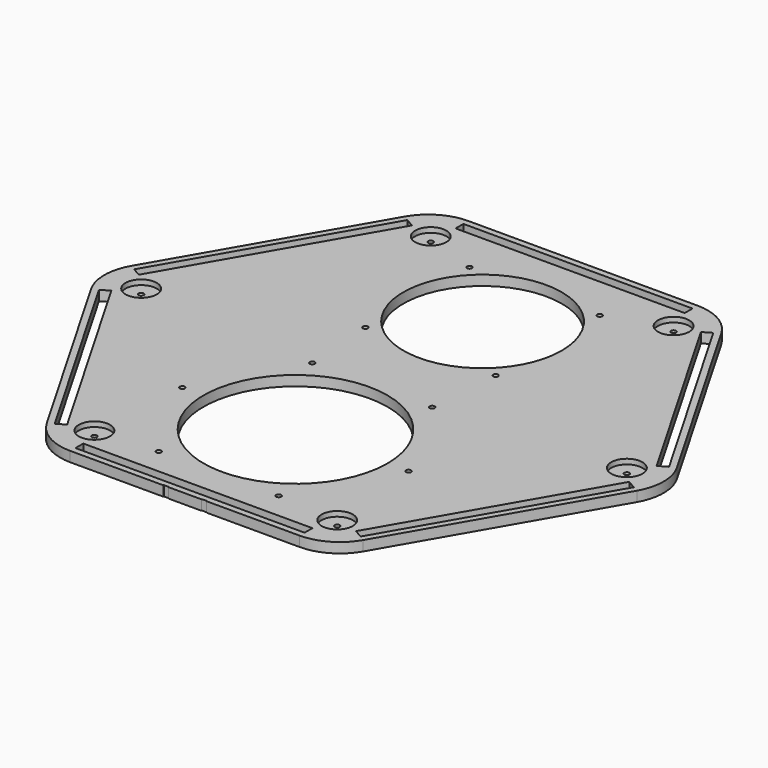
from build123d import *

# Parameters (mm, degrees)
F1_DEPTH  = 5.08
F2_R      = 40
F2_R_2    = 46.5
F2_R_3    = 1.27
F3_DEPTH  = 25.4
F4_W      = 115.731926
F4_H      = 4.953
F5_DEPTH  = 5.081
F6_R      = 7.8867
F7_DEPTH  = 2.54
F8_R      = 1.27
F9_DEPTH  = 2.541
F10_W     = 2.54
F10_H     = 0.254
F11_DEPTH = 5.081


with BuildPart() as f1:
    # F0 (on Top) → F1 (new body)
    with BuildSketch(Plane.XY):
        with BuildLine():
            Line((-79.922598, 113.03), (-137.84815, 12.7))
            ThreePointArc((-137.84815, 12.7), (-141.251105, 0), (-137.84815, -12.7))
            Line((-137.84815, -12.7), (-79.922598, -113.03))
            ThreePointArc((-79.922598, -113.03), (-70.625553, -122.327045), (-57.925553, -125.73))
            Line((-57.925553, -125.73), (57.925553, -125.73))
            ThreePointArc((57.925553, -125.73), (70.625553, -122.327045), (79.922598, -113.03))
            Line((79.922598, -113.03), (137.84815, -12.7))
            ThreePointArc((137.84815, -12.7), (141.251105, 0), (137.84815, 12.7))
            Line((137.84815, 12.7), (79.922598, 113.03))
            ThreePointArc((79.922598, 113.03), (70.625553, 122.327045), (57.925553, 125.73))
            Line((57.925553, 125.73), (-57.925553, 125.73))
            ThreePointArc((-57.925553, 125.73), (-70.625553, 122.327045), (-79.922598, 113.03))
        make_face()
    extrude(amount=F1_DEPTH)

    # F2 (on face) → F3 (cut)
    with BuildSketch(Plane.XY.offset(5.08)):
        with Locations((0, 62.23)):
            Circle(F2_R)
        with Locations((0, -55.88)):
            Circle(F2_R_2)
        with Locations((57.15, -55.88)):
            Circle(F2_R_3)
        with Locations((30.284886, -7.414051)):
            Circle(F2_R_3)
        with Locations((30.284886, -104.345949)):
            Circle(F2_R_3)
        with Locations((-30.284886, -7.414051)):
            Circle(F2_R_3)
        with Locations((-30.284886, -104.345949)):
            Circle(F2_R_3)
        with Locations((-57.15, -55.88)):
            Circle(F2_R_3)
        with Locations((-32.880465, 95.110465)):
            Circle(F2_R_3)
        with Locations((-32.880465, 29.349535)):
            Circle(F2_R_3)
        with Locations((32.880465, 29.349535)):
            Circle(F2_R_3)
        with Locations((32.880465, 95.110465)):
            Circle(F2_R_3)
    extrude(amount=-F3_DEPTH, mode=Mode.SUBTRACT)

    # F4 (on face) → F5 (cut, through all)
    with BuildSketch(Plane.XY.offset(5.08)):
        Polygon((-135.03893, -11.215713), (-77.172967, -111.4425), (-72.883543, -108.966), (-130.749506, -8.739213), align=None)
        Polygon((-77.232557, 111.339287), (-135.09852, 11.1125), (-130.809096, 8.636), (-72.943133, 108.862787), align=None)
        with Locations((-0.05959, 120.0785)):
            Rectangle(F4_W, F4_H)
        Polygon((135.03893, 11.215713), (77.172967, 111.4425), (72.883543, 108.966), (130.749506, 8.739213), align=None)
        Polygon((77.232557, -111.339287), (135.09852, -11.1125), (130.809096, -8.636), (72.943133, -108.862787), align=None)
        with Locations((0.05959, -120.0785)):
            Rectangle(F4_W, F4_H)
    extrude(amount=-F5_DEPTH, mode=Mode.SUBTRACT)

    # F6 (on face) → F7 (cut)
    with BuildSketch(Plane.XY.offset(5.08)):
        with Locations((-61.343372, 106.202414)):
            Circle(F6_R)
        with Locations((61.302302, 106.226125)):
            Circle(F6_R)
        with Locations((122.645674, 0.023711)):
            Circle(F6_R)
        with Locations((61.343372, -106.202414)):
            Circle(F6_R)
        with Locations((-61.302302, -106.226125)):
            Circle(F6_R)
        with Locations((-122.645674, -0.023711)):
            Circle(F6_R)
    extrude(amount=-F7_DEPTH, mode=Mode.SUBTRACT)

    # F8 (on face) → F9 (cut, through all)
    with BuildSketch(Plane.XY.offset(2.54)):
        with Locations((-61.343372, 106.202414)):
            Circle(F8_R)
        with Locations((61.302302, 106.226125)):
            Circle(F8_R)
        with Locations((-61.302302, -106.226125)):
            Circle(F8_R)
        with Locations((61.343372, -106.202414)):
            Circle(F8_R)
        with Locations((122.645674, 0.023711)):
            Circle(F8_R)
        with Locations((-122.645674, -0.023711)):
            Circle(F8_R)
    extrude(amount=-F9_DEPTH, mode=Mode.SUBTRACT)

    # F10 (on face) → F11 (cut, through all)
    with BuildSketch(Plane.XY.offset(5.08)):
        with Locations((-9.525, -125.603)):
            Rectangle(F10_W, F10_H)
        with Locations((9.58459, -125.603)):
            Rectangle(F10_W, F10_H)
    extrude(amount=-F11_DEPTH, mode=Mode.SUBTRACT)


solid = f1.part
